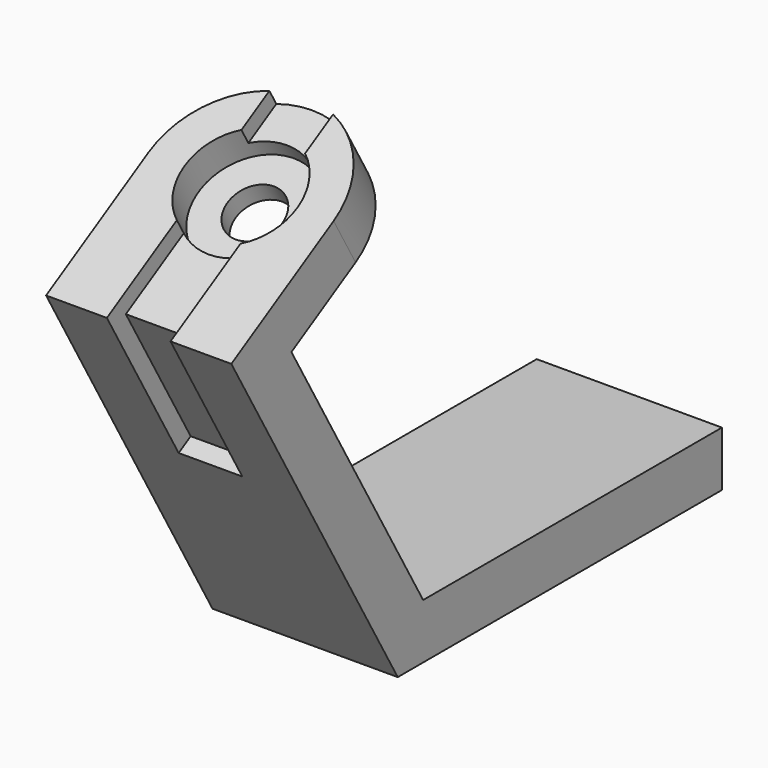
from build123d import *

# Parameters (mm, degrees)
F1_DEPTH = 32
F2_R     = 9.5
F3_DEPTH = 19
F2_R_2   = 19.5
F4_DEPTH = 12
F6_DEPTH = 6
F7_W     = 22
F7_H     = 56
F8_DEPTH = 6


with BuildPart() as f1:
    # F0 (on Right) → F1 (new body, symmetric)
    with BuildSketch(Plane.YZ):
        Polygon((0, 0), (140, 0), (140, 19), (10.9696551146, 19), (-45.9256258422, 117.5455173281), (9.5, 149.5455173281), (0, 166), (-71.8801085141, 124.5), align=None)
    extrude(amount=F1_DEPTH, both=True)

    # F2 (on face) → F3 (cut, through all)
    with BuildSketch(Plane(origin=(0, -71.8801085141, 124.5), x_dir=(1, 0, 0), z_dir=(0, -0.5, 0.8660254038))):
        with BuildLine():
            ThreePointArc((2.022e-07, 83), (22.6274170695, 73.6274169265), (32, 51))
            Line((32, 51), (32, 83))
            Line((32, 83), (2.022e-07, 83))
        make_face()
        with BuildLine():
            ThreePointArc((-32, 51), (-22.6274169265, 73.6274170695), (2.022e-07, 83))
            Line((2.022e-07, 83), (-32, 83))
            Line((-32, 83), (-32, 51))
        make_face()
        with Locations((0, 51)):
            Circle(F2_R)
    extrude(amount=-F3_DEPTH, mode=Mode.SUBTRACT)

    # F2 (on face) → F4 (cut)
    with BuildSketch(Plane(origin=(0, -71.8801085141, 124.5), x_dir=(1, 0, 0), z_dir=(0, -0.5, 0.8660254038))):
        with Locations((0, 51)):
            Circle(F2_R_2)
        with Locations((0, 51)):
            Circle(F2_R, mode=Mode.SUBTRACT)
    extrude(amount=-F4_DEPTH, mode=Mode.SUBTRACT)

    # F5 (on face) → F6 (cut)
    with BuildSketch(Plane(origin=(0, -71.8801085141, 124.5), x_dir=(1, 0, 0), z_dir=(0, -0.5, 0.8660254038))):
        with BuildLine():
            Line((-11, 0), (11, 0))
            Line((11, 0), (11, 20.9500415974))
            ThreePointArc((11, 20.9500415974), (0, 19), (-11, 20.9500415974))
            Line((-11, 20.9500415974), (-11, 0))
        make_face()
        with BuildLine():
            ThreePointArc((-11, 20.9500415974), (0, 19), (11, 20.9500415974))
            Line((11, 20.9500415974), (11, 83))
            Line((11, 83), (-11, 83))
            Line((-11, 83), (-11, 20.9500415974))
        make_face()
    extrude(amount=-F6_DEPTH, mode=Mode.SUBTRACT)

    # F7 (on face) → F8 (cut)
    with BuildSketch(Plane(origin=(0, 0, 0), x_dir=(1, 0, 0), z_dir=(0, -0.8660254038, -0.5))):
        with Locations((0, 109.7602170282)):
            Rectangle(F7_W, F7_H)
    extrude(amount=-F8_DEPTH, mode=Mode.SUBTRACT)


solid = f1.part
